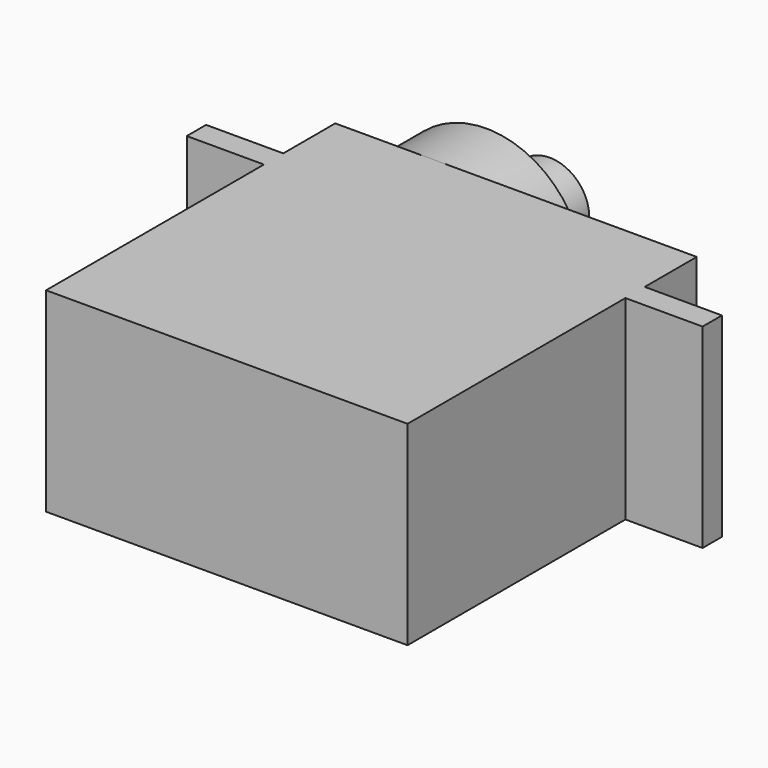
from build123d import *

# Parameters (mm, degrees)
F1_DEPTH = 12.192
F2_R     = 6.096
F3_DEPTH = 4.191
F4_R     = 2.4765
F5_DEPTH = 4.953


with BuildPart() as f1:
    # F0 (on Top) → F1 (new body)
    with BuildSketch(Plane.XY):
        Polygon((0, 17.030123), (0, 0), (22.606, 0), (22.606, 17.030123), (27.432, 17.030123), (27.432, 18.542), (22.606, 18.542), (22.606, 22.606), (0, 22.606), (0, 18.542), (-4.826, 18.542), (-4.826, 17.030123), align=None)
    extrude(amount=F1_DEPTH)

    # F2 (on face) → F3 (join)
    with BuildSketch(Plane(origin=(0, 22.606, 0), x_dir=(-1, 0, 0), z_dir=(0, 1, 0))):
        with Locations((-6.096, 6.096)):
            Circle(F2_R)
    extrude(amount=F3_DEPTH)

    # F4 (on face) → F5 (join)
    with BuildSketch(Plane(origin=(0, 26.797, 0), x_dir=(-1, 0, 0), z_dir=(0, 1, 0))):
        with Locations((-6.096, 6.096)):
            Circle(F4_R)
    extrude(amount=F5_DEPTH)


solid = f1.part
